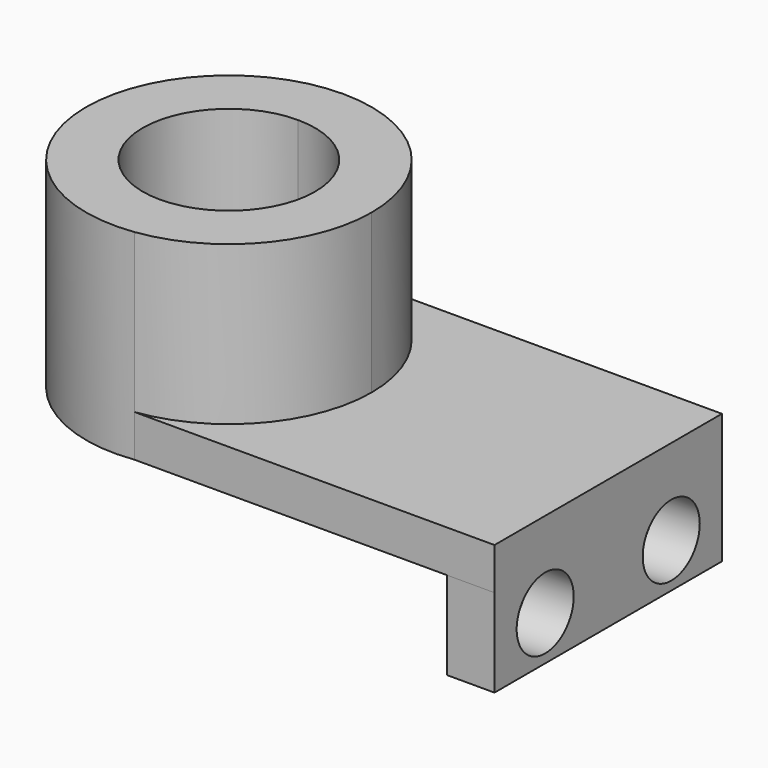
from build123d import *

# Parameters (mm, degrees)
F1_DEPTH = 25.4
F4_DEPTH = 121.295029
F5_W     = 172.064931
F5_H     = 53.261429
F5_H_2   = 25.4
F2_DEPTH = 28.615158
F6_R     = 21.58089
F3_DEPTH = 28.615158


with BuildPart() as f1:
    # F0 (on Top) → F1 (new body)
    with BuildSketch(Plane.XY):
        with BuildLine():
            ThreePointArc((0.07735, 86.408892), (61.127679, 61.072985), (86.408927, 0))
            ThreePointArc((86.408927, 0), (64.999971, -56.934229), (11.381807, -85.656039))
            Line((11.381807, -85.656039), (229.284793, -85.656039))
            Line((229.284793, -85.656039), (229.284793, 86.408892))
            Line((229.284793, 86.408892), (0.07735, 86.408892))
        make_face()
        with BuildLine():
            Line((0.07735, 52.184075), (0.07735, 86.408892))
            ThreePointArc((0.07735, 86.408892), (-86.223044, -5.66475), (11.381807, -85.656039))
            Line((11.381807, -85.656039), (0.07735, -85.656039))
            Line((0.07735, -85.656039), (0.07735, -52.184075))
            ThreePointArc((0.07735, -52.184075), (-52.184132, 0), (0.07735, 52.184075))
        make_face()
        with BuildLine():
            ThreePointArc((11.381807, -85.656039), (64.999971, -56.934229), (86.408927, 0))
            ThreePointArc((86.408927, 0), (61.127679, 61.072985), (0.07735, 86.408892))
            Line((0.07735, 86.408892), (0.07735, 52.184075))
            ThreePointArc((0.07735, 52.184075), (36.927091, 36.872397), (52.184132, 0))
            ThreePointArc((52.184132, 0), (36.927091, -36.872397), (0.07735, -52.184075))
            Line((0.07735, -52.184075), (0.07735, -85.656039))
            Line((0.07735, -85.656039), (11.381807, -85.656039))
        make_face()
    extrude(amount=F1_DEPTH)

    # F0 (on Top) → F4 (join)
    with BuildSketch(Plane.XY):
        with BuildLine():
            ThreePointArc((11.381807, -85.656039), (64.999971, -56.934229), (86.408927, 0))
            ThreePointArc((86.408927, 0), (61.127679, 61.072985), (0.07735, 86.408892))
            Line((0.07735, 86.408892), (0.07735, 52.184075))
            ThreePointArc((0.07735, 52.184075), (36.927091, 36.872397), (52.184132, 0))
            ThreePointArc((52.184132, 0), (36.927091, -36.872397), (0.07735, -52.184075))
            Line((0.07735, -52.184075), (0.07735, -85.656039))
            Line((0.07735, -85.656039), (11.381807, -85.656039))
        make_face()
        with BuildLine():
            Line((0.07735, 52.184075), (0.07735, 86.408892))
            ThreePointArc((0.07735, 86.408892), (-86.223044, -5.66475), (11.381807, -85.656039))
            Line((11.381807, -85.656039), (0.07735, -85.656039))
            Line((0.07735, -85.656039), (0.07735, -52.184075))
            ThreePointArc((0.07735, -52.184075), (-52.184132, 0), (0.07735, 52.184075))
        make_face()
    extrude(amount=F4_DEPTH)

    # F5 (on face) → F2 (join)
    with BuildSketch(Plane.YZ.offset(229.284793)):
        with Locations((0.376427, -26.630714)):
            Rectangle(F5_W, F5_H)
        with Locations((0.376427, 12.7)):
            Rectangle(F5_W, F5_H_2)
    extrude(amount=-F2_DEPTH)

    # F6 (on face) → F3 (cut, through all)
    with BuildSketch(Plane.YZ.offset(229.284793)):
        with Locations((-47.304388, -26.372436)):
            Circle(F6_R)
        with Locations((48.057241, -26.372436)):
            Circle(F6_R)
    extrude(amount=-F3_DEPTH, mode=Mode.SUBTRACT)


solid = f1.part
